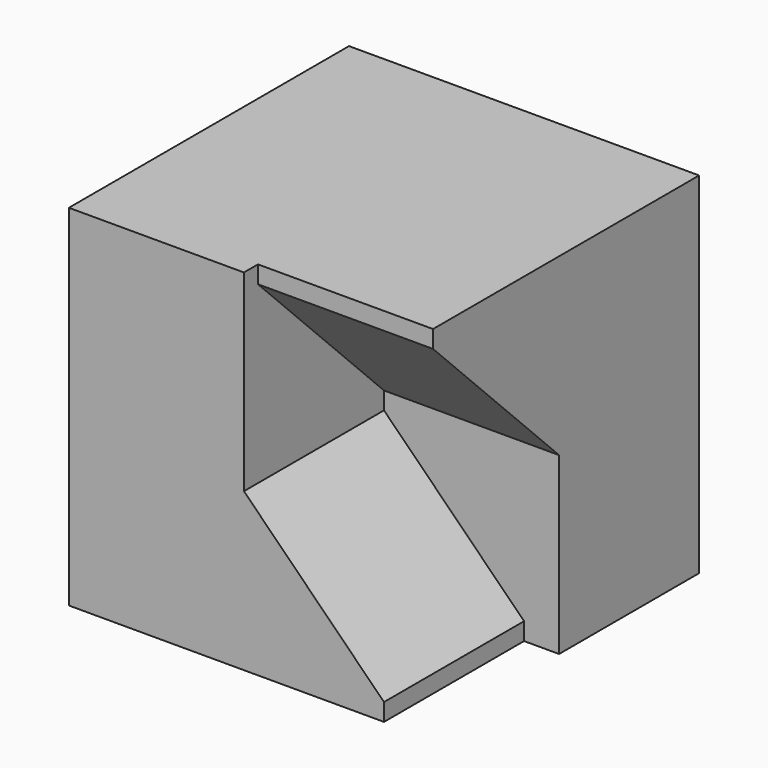
from build123d import *

# Parameters (mm, degrees)
F0_W     = 20
F0_H     = 20
F1_DEPTH = 10
F3_DEPTH = 10
F4_DEPTH = 10
F6_DEPTH = 10


with BuildPart() as f1:
    # F0 (on Top) → F1 (new body)
    with BuildSketch(Plane.XY):
        Rectangle(F0_W, F0_H)
    extrude(amount=F1_DEPTH)

    # F2 (on face) → F3 (cut)
    with BuildSketch(Plane.YZ.offset(10)):
        Polygon((-9, 9), (-9, 10), (-10, 10), (-10, 0), (0, 0), align=None)
    extrude(amount=-F3_DEPTH, mode=Mode.SUBTRACT)

    # F0 (on Top) → F4 (join)
    with BuildSketch(Plane.XY):
        Rectangle(F0_W, F0_H)
    extrude(amount=-F4_DEPTH)

    # F5 (on face) → F6 (cut)
    with BuildSketch(Plane.XZ.offset(10)):
        Polygon((10, 0), (0, 0), (0, -1), (8, -9), (8, -10), (10, -10), align=None)
    extrude(amount=-F6_DEPTH, mode=Mode.SUBTRACT)


solid = f1.part
